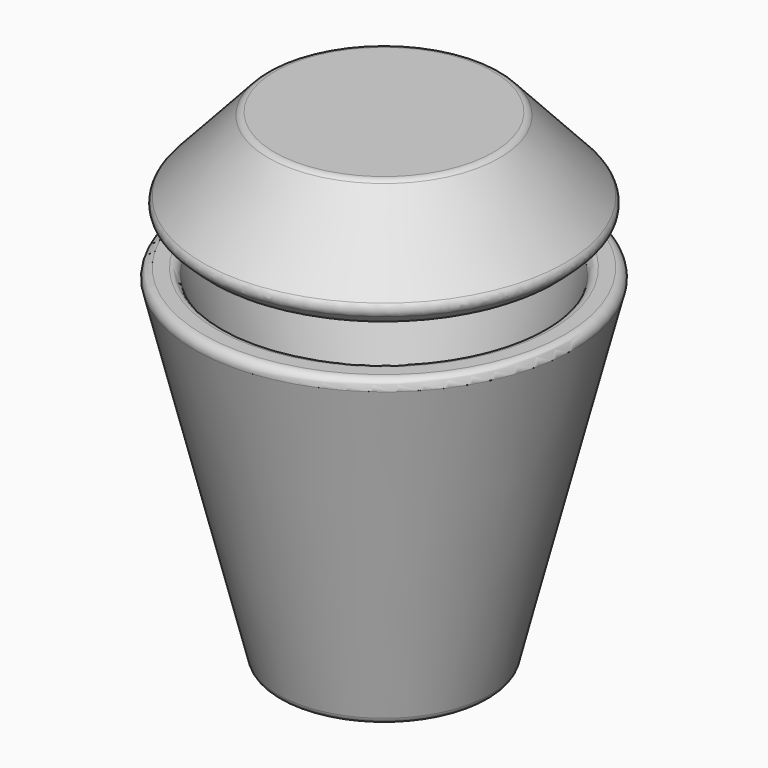
from build123d import *

# Parameters (mm, degrees)
F2_R = 1.27


with BuildPart() as f1:
    # F0 (on Right) → F1 (revolve)
    with BuildSketch(Plane.YZ):
        Polygon((-15.24, 0), (0, 0), (0, 4.445), (-11.776238, 4.445), (-23.45857, 50.8), (-28.042556, 50.8), align=None)
        Polygon((-27.27698, 59.046042), (-24.000329, 56.042447), (-14.554637, 66.346841), (0, 66.346841), (0, 70.791841), (-16.51, 70.791841), align=None)
    revolve(axis=Axis((0, 0, 2.2225), (0, 0, -1)))

    # F2
    f2_edges = [f1.edges().sort_by_distance(p)[0] for p in [
        (0, 28.042556, 50.8),
        (0, 23.45857, 50.8),
        (0, 11.776238, 4.445),
        (0, 15.24, 0),
        (0, 27.27698, 59.046042),
        (0, 24.000329, 56.042447),
        (0, 16.51, 70.791841),
    ]]
    fillet(f2_edges, radius=F2_R)


solid = f1.part
